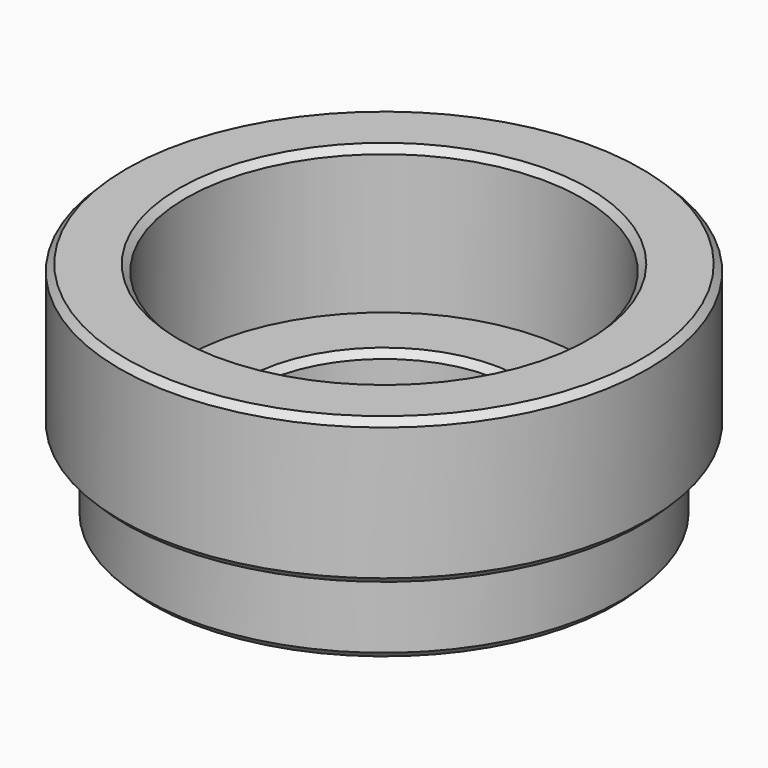
from build123d import *

# Parameters (mm, degrees)
F2_SIZE = 0.5


with BuildPart() as f1:
    # F0 (on Front) → F1 (revolve)
    with BuildSketch(Plane.XZ):
        Polygon((0, 11.05), (0, 0), (1.985, 0), (1.985, -6), (4.99, -6), (4.99, -3), (9.99, -3), (9.99, 0), (4.99, 0), (4.99, 11.05), align=None)
    revolve(axis=Axis((20, 0, 0.0311555341), (0, 0, -1)))

    # F2
    f2_edges = [f1.edges().sort_by_distance(p)[0] for p in [
        (35.01, 0, 11.05),
        (40, 0, 11.05),
        (40, 0, 0),
        (38.015, 0, -6),
        (30.01, 0, -3),
        (30.01, 0, 0),
    ]]
    chamfer(f2_edges, length=F2_SIZE)


solid = f1.part
